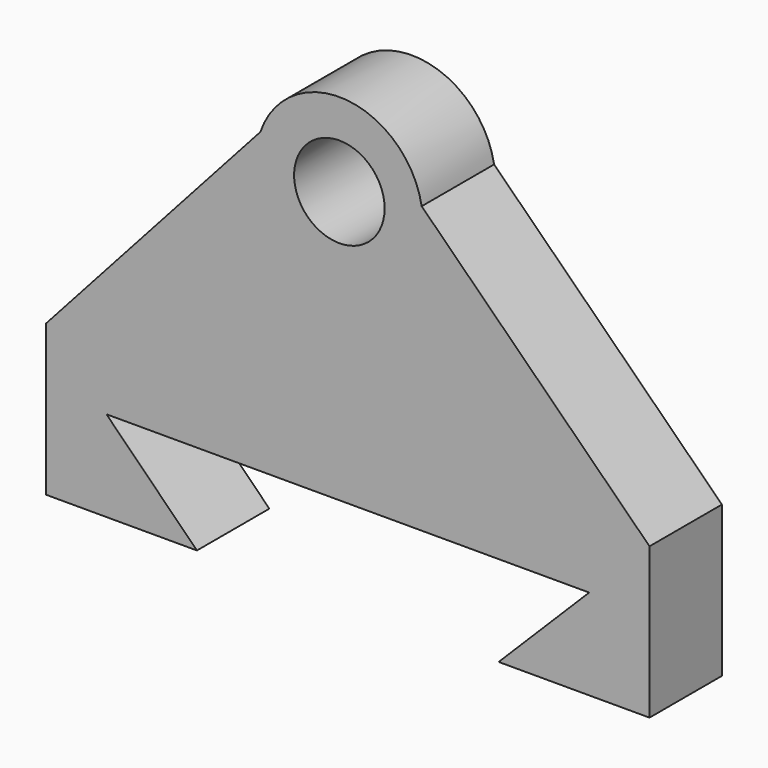
from build123d import *

# Parameters (mm, degrees)
F0_R     = 15
F1_DEPTH = 30


with BuildPart() as f1:
    # F0 (on Front) → F1 (new body)
    with BuildSketch(Plane.XZ):
        with BuildLine():
            Line((-26.19062, 78.954722), (-97.205882, 0))
            Line((-97.205882, 0), (102.794118, 0))
            Line((102.794118, 0), (27.282958, 74.666461))
            ThreePointArc((27.282958, 74.666461), (27.579928, 72.341625), (27.679155, 70))
            ThreePointArc((27.679155, 70), (-4.538799, 42.695514), (-26.19062, 78.954722))
        make_face()
        Polygon((102.794118, 0), (-97.205882, 0), (-97.205882, -50), (-47.205882, -50), (-77.205882, -20), (82.794118, -20), (52.794118, -50), (102.794118, -50), align=None)
        with BuildLine():
            ThreePointArc((27.282958, 74.666461), (2.2126, 97.590579), (-26.19062, 78.954722))
            ThreePointArc((-26.19062, 78.954722), (-4.538799, 42.695514), (27.679155, 70))
            ThreePointArc((27.679155, 70), (27.579928, 72.341625), (27.282958, 74.666461))
        make_face()
        with Locations((0, 70)):
            Circle(F0_R, mode=Mode.SUBTRACT)
    extrude(amount=F1_DEPTH)


solid = f1.part
